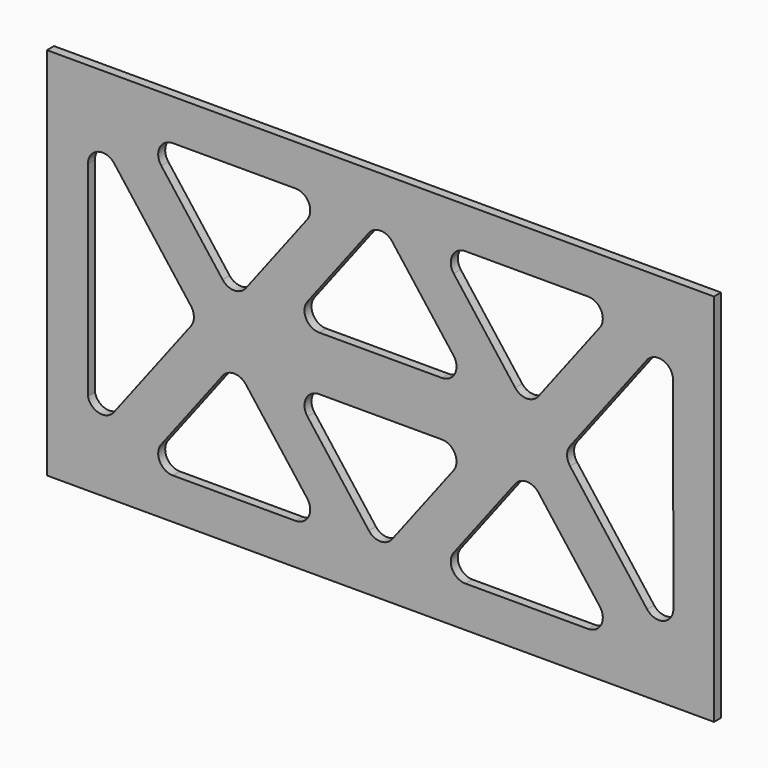
from build123d import *

# Parameters (mm, degrees)
F0_W     = 228.000006
F0_H     = 128.000006
F1_DEPTH = 3


with BuildPart() as f1:
    # F0 (on Front) → F1 (new body)
    with BuildSketch(Plane.XZ):
        Rectangle(F0_W, F0_H)
        with BuildLine():
            Line((100, -35.578923), (100, -50))
            Line((100, -50), (70.984792, -50))
            Line((70.984792, -50), (29.015208, -50))
            Line((29.015208, -50), (-29.015208, -50))
            Line((-29.015208, -50), (-70.984792, -50))
            Line((-70.984792, -50), (-100, -50))
            Line((-100, -50), (-100, -35.578923))
            Line((-100, -35.578923), (-100, 34.356112))
            Line((-100, 34.356112), (-100, 50))
            Line((-100, 50), (-70.984792, 50))
            Line((-70.984792, 50), (-29.015208, 50))
            Line((-29.015208, 50), (18.414966, 50))
            Line((18.414966, 50), (29.015208, 50))
            Line((29.015208, 50), (70.984792, 50))
            Line((70.984792, 50), (81.585034, 50))
            Line((81.585034, 50), (100, 50))
            Line((100, 50), (100, 37.225828))
            Line((100, 37.225828), (100.116007, -34.500008))
            ThreePointArc((100.116007, -34.500008), (100.087359, -35.042622), (100, -35.578923))
        make_face(mode=Mode.SUBTRACT)
        with BuildLine():
            Line((70.984792, -50), (100, -50))
            Line((100, -50), (100, -35.578923))
            ThreePointArc((100, -35.578923), (96.197739, -39.38968), (91.141582, -37.541887))
            Line((91.141582, -37.541887), (64.800607, -3.033792))
            ThreePointArc((64.800607, -3.033792), (63.775038, 0), (64.800607, 3.033792))
            Line((64.800607, 3.033792), (91.025569, 37.389904))
            ThreePointArc((91.025569, 37.389904), (96.601225, 39.092785), (100, 34.356112))
            Line((100, 34.356112), (100, 37.225828))
            Line((100, 37.225828), (100, 50))
            Line((100, 50), (81.585034, 50))
            Line((81.585034, 50), (70.984792, 50))
            ThreePointArc((70.984792, 50), (75.466363, 47.217097), (74.959223, 41.966208))
            Line((74.959223, 41.966208), (53.974431, 14.475001))
            ThreePointArc((53.974431, 14.475001), (50, 12.508793), (46.025569, 14.475001))
            Line((46.025569, 14.475001), (25.040777, 41.966208))
            ThreePointArc((25.040777, 41.966208), (24.533637, 47.217097), (29.015208, 50))
            Line((29.015208, 50), (18.414966, 50))
            Line((18.414966, 50), (-29.015208, 50))
            ThreePointArc((-29.015208, 50), (-24.533637, 47.217097), (-25.040777, 41.966208))
            Line((-25.040777, 41.966208), (-46.025569, 14.475001))
            ThreePointArc((-46.025569, 14.475001), (-50, 12.508793), (-53.974431, 14.475001))
            Line((-53.974431, 14.475001), (-74.959223, 41.966208))
            ThreePointArc((-74.959223, 41.966208), (-75.466363, 47.217097), (-70.984792, 50))
            Line((-70.984792, 50), (-100, 50))
            Line((-100, 50), (-100, 34.356112))
            ThreePointArc((-100, 34.356112), (-96.601225, 39.092785), (-91.025569, 37.389904))
            Line((-91.025569, 37.389904), (-64.800607, 3.033792))
            ThreePointArc((-64.800607, 3.033792), (-63.775038, 0), (-64.800607, -3.033792))
            Line((-64.800607, -3.033792), (-91.141582, -37.541887))
            ThreePointArc((-91.141582, -37.541887), (-96.197739, -39.38968), (-100, -35.578923))
            Line((-100, -35.578923), (-100, -50))
            Line((-100, -50), (-70.984792, -50))
            ThreePointArc((-70.984792, -50), (-75.466363, -47.217097), (-74.959223, -41.966208))
            Line((-74.959223, -41.966208), (-53.974431, -14.475001))
            ThreePointArc((-53.974431, -14.475001), (-50, -12.508793), (-46.025569, -14.475001))
            Line((-46.025569, -14.475001), (-25.040777, -41.966208))
            ThreePointArc((-25.040777, -41.966208), (-24.533637, -47.217097), (-29.015208, -50))
            Line((-29.015208, -50), (29.015208, -50))
            ThreePointArc((29.015208, -50), (24.533637, -47.217097), (25.040777, -41.966208))
            Line((25.040777, -41.966208), (46.025569, -14.475001))
            ThreePointArc((46.025569, -14.475001), (50, -12.508793), (53.974431, -14.475001))
            Line((53.974431, -14.475001), (74.959223, -41.966208))
            ThreePointArc((74.959223, -41.966208), (75.466363, -47.217097), (70.984792, -50))
        make_face()
        with BuildLine():
            Line((24.959223, -17.302074), (3.974431, -44.793281))
            ThreePointArc((3.974431, -44.793281), (0, -46.759489), (-3.974431, -44.793281))
            Line((-3.974431, -44.793281), (-24.959223, -17.302074))
            ThreePointArc((-24.959223, -17.302074), (-25.466363, -12.051185), (-20.984792, -9.268282))
            Line((-20.984792, -9.268282), (0, -9.268282))
            Line((0, -9.268282), (20.984792, -9.268282))
            ThreePointArc((20.984792, -9.268282), (25.466363, -12.051185), (24.959223, -17.302074))
        make_face(mode=Mode.SUBTRACT)
        with BuildLine():
            ThreePointArc((-3.974431, 44.793281), (0, 46.759489), (3.974431, 44.793281))
            Line((3.974431, 44.793281), (24.959223, 17.302074))
            ThreePointArc((24.959223, 17.302074), (25.466363, 12.051185), (20.984792, 9.268282))
            Line((20.984792, 9.268282), (0, 9.268282))
            Line((0, 9.268282), (-20.984792, 9.268282))
            ThreePointArc((-20.984792, 9.268282), (-25.466363, 12.051185), (-24.959223, 17.302074))
            Line((-24.959223, 17.302074), (-3.974431, 44.793281))
        make_face(mode=Mode.SUBTRACT)
    extrude(amount=F1_DEPTH)


solid = f1.part
